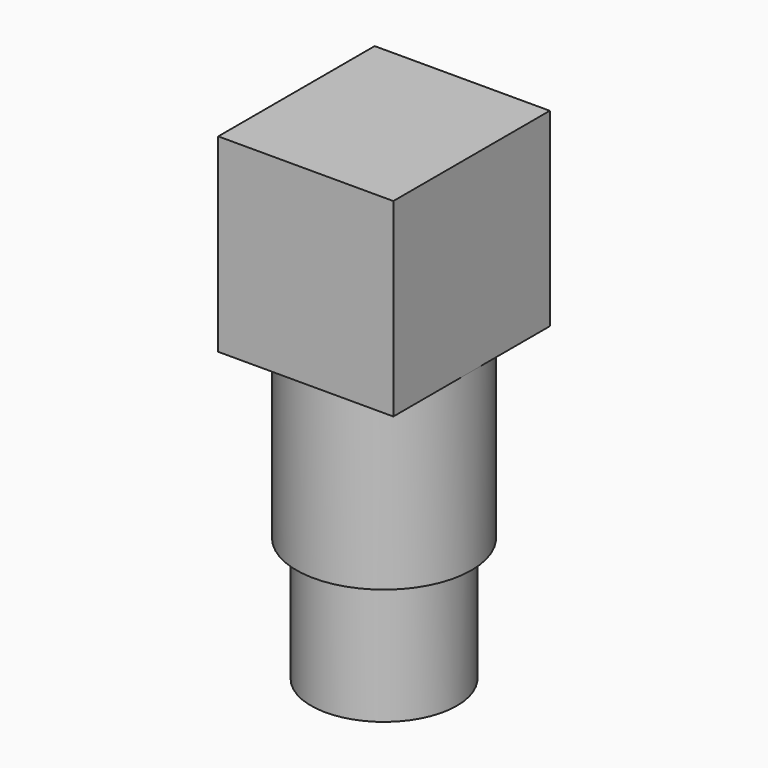
from build123d import *

# Parameters (mm, degrees)
SKETCH003_W             = 12
SKETCH003_H             = 13.4
PAD003_DEPTH            = 13
SKETCH004_R             = 6
PAD004_DEPTH            = 12
SKETCH005_R             = 5
PAD005_DEPTH            = 8.5
BODY002_PLACEMENT_ANGLE = 180


with BuildPart() as part:
    # Sketch003 → Pad003 (new body)
    with BuildSketch(Plane.XY):
        with Locations((6, 6.7)):
            Rectangle(SKETCH003_W, SKETCH003_H)
    extrude(amount=PAD003_DEPTH)

    # Sketch004 (on Face6 of Pad003) → Pad004 (join)
    with BuildSketch(Plane.XY.offset(13)):
        with Locations((6, 6.7)):
            Circle(SKETCH004_R)
    extrude(amount=PAD004_DEPTH)

    # Sketch005 (on Face9 of Pad004) → Pad005 (join)
    with BuildSketch(Plane.XY.offset(25)):
        with Locations((6, 6.7)):
            Circle(SKETCH005_R)
    extrude(amount=PAD005_DEPTH)


with BuildPart() as part_1:
    # Body002 placement: moved
    add(part.part.moved(Location((-6.2, 6.8, -2.4))).rotate(Axis((-6.2, 6.8, -2.4), (1, 0, 0)), BODY002_PLACEMENT_ANGLE))


solid = part_1.part
